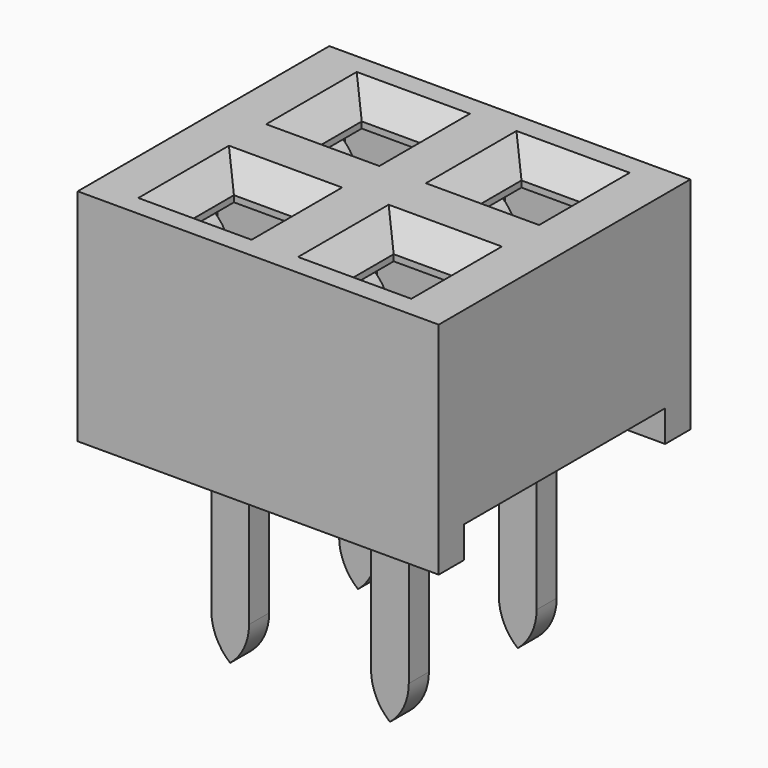
from build123d import *

# Parameters (mm, degrees)
SKETCH006_W                          = 1.85
SKETCH006_H                          = 1.4
EXTRUDE016_DEPTH                     = 3
SKETCH007_W                          = 1
SKETCH007_H                          = 1
EXTRUDE007_DEPTH                     = 9
SKETCH010_W                          = 4
SKETCH010_H                          = 4
EXTRUDE010_DEPTH                     = 0.5
SKETCH011_W                          = 3.2
SKETCH011_H                          = 5
EXTRUDE015_DEPTH                     = 3.5
CHAMFER004_SIZE                      = 0.4
ARRAY009_X_COUNT                     = 2
ARRAY009_X_PITCH                     = 2.54
EXTRUDE014_DEPTH                     = 0.4
EXTRUDE014_ONTO_SKETCH014_ROLL_ANGLE = 90
ARRAY008_X_COUNT                     = 2
ARRAY008_X_PITCH                     = 2.54
ARRAY008_Y_COUNT                     = 2
ARRAY008_Y_PITCH                     = 2.54
FUSION011_PLACEMENT_ANGLE            = 180


with BuildPart() as extrude016:
    # Sketch006 → Extrude016 (new body)
    with BuildSketch(Plane.XY):
        Rectangle(SKETCH006_W, SKETCH006_H)
    extrude(amount=EXTRUDE016_DEPTH)


with BuildPart() as fusion010:
    # Sketch007 → Extrude007 (new body)
    with BuildSketch(Plane.XY):
        Rectangle(SKETCH007_W, SKETCH007_H)
    extrude(amount=EXTRUDE007_DEPTH)

    # Fusion010: union Extrude016
    add(extrude016.part)


with BuildPart() as fusion010_1:
    # Fusion010 placement: moved
    add(fusion010.part.moved(Location((0, 1.27, 0))))


with BuildPart() as extrude010:
    # Sketch010 → Extrude010 (new body)
    with BuildSketch(Plane.XY):
        Rectangle(SKETCH010_W, SKETCH010_H)
    extrude(amount=EXTRUDE010_DEPTH)


with BuildPart() as fusion009:
    # Part__Mirroring005: instance of Fusion010
    add(fusion010_1.part.mirror(Plane(origin=(0, 0, 0), x_dir=(1, 0, 0), z_dir=(0, 1, 0))))

    # Fusion009: union Fusion010, Extrude010
    add(fusion010_1.part)
    add(extrude010.part)


with BuildPart() as body004:
    # Sketch011 → Extrude015 (new body)
    with BuildSketch(Plane.XY):
        Rectangle(SKETCH011_W, SKETCH011_H)
    extrude(amount=EXTRUDE015_DEPTH)

    # Cut004: cut Fusion009
    add(fusion009.part, mode=Mode.SUBTRACT)

    # Chamfer004
    chamfer004_edges = [body004.edges().sort_by_distance(p)[0] for p in [
        (0.5, 1.27, 3.5),
        (0, 1.77, 3.5),
        (-0.5, 1.27, 3.5),
        (0, 0.77, 3.5),
        (0, -0.77, 3.5),
        (-0.5, -1.27, 3.5),
        (0, -1.77, 3.5),
        (0.5, -1.27, 3.5),
    ]]
    chamfer(chamfer004_edges, length=CHAMFER004_SIZE)

    # Array009 X: body004 ×2


with BuildPart() as body004_1:
    add(body004.part)
    with Locations(*[(i * ARRAY009_X_PITCH, 0, 0) for i in range(1, ARRAY009_X_COUNT)]):
        add(body004.part)


with BuildPart() as obj1:
    # Sketch014 as drawn → Extrude014 (new)
    with BuildSketch(Plane.XY):
        with BuildLine():
            Line((-0.576584, 2.969708), (-0.894618, 0.740609))
            Line((-0.894618, 0.740609), (-0.3, 0.601222))
            Line((-0.3, 0.601222), (-0.3, -2.364495))
            ThreePointArc((-0.3, -2.364495), (-0.221231, -2.715873), (0, -3))
            Line((0, -3), (0, 1.136926))
            Line((0, 1.136926), (-0.444653, 1.17505))
            Line((-0.444653, 1.17505), (-0.383655, 2.044284))
            ThreePointArc((-0.383655, 2.044284), (-0.319772, 2.540424), (-0.576584, 2.969708))
        make_face()
    extrude(amount=-EXTRUDE014_DEPTH)


with BuildPart() as obj1_1:
    # Extrude014 onto Sketch014 roll: moved
    add(obj1.part.rotate(Axis((0, 0, 0), (1, 0, 0)), EXTRUDE014_ONTO_SKETCH014_ROLL_ANGLE))


with BuildPart() as obj1_2:
    # Extrude014 onto Sketch014 placement: moved
    add(obj1_1.part.moved(Location((0, -0.2, 0))))


with BuildPart() as fusion011:
    # Part__Mirroring004: instance of obj1
    add(obj1_2.part.mirror(Plane(origin=(0, 0, 0), x_dir=(0, -1, 0), z_dir=(1, 0, 0))))

    # Fusion008: union obj1
    add(obj1_2.part)

    # Array008 X: Fusion011 ×2


with BuildPart() as fusion011_1:
    add(fusion011.part)
    with Locations(*[(i * ARRAY008_X_PITCH, 0, 0) for i in range(1, ARRAY008_X_COUNT)]):
        add(fusion011.part)

    # Array008 Y: Fusion011 ×2


with BuildPart() as fusion011_2:
    add(fusion011_1.part)
    with Locations(*[(0, i * ARRAY008_Y_PITCH, 0) for i in range(1, ARRAY008_Y_COUNT)]):
        add(fusion011_1.part)


with BuildPart() as fusion011_3:
    # Array008 placement: moved
    add(fusion011_2.part.moved(Location((0, -1.27, 0))))

    # Fusion011: union body004
    add(body004_1.part)


with BuildPart() as fusion011_4:
    # Fusion011 placement: moved
    add(fusion011_3.part.moved(Location((0, 1.27, 0))).rotate(Axis((0, 1.27, 0), (0, 0, 1)), FUSION011_PLACEMENT_ANGLE))


solid = fusion011_4.part
